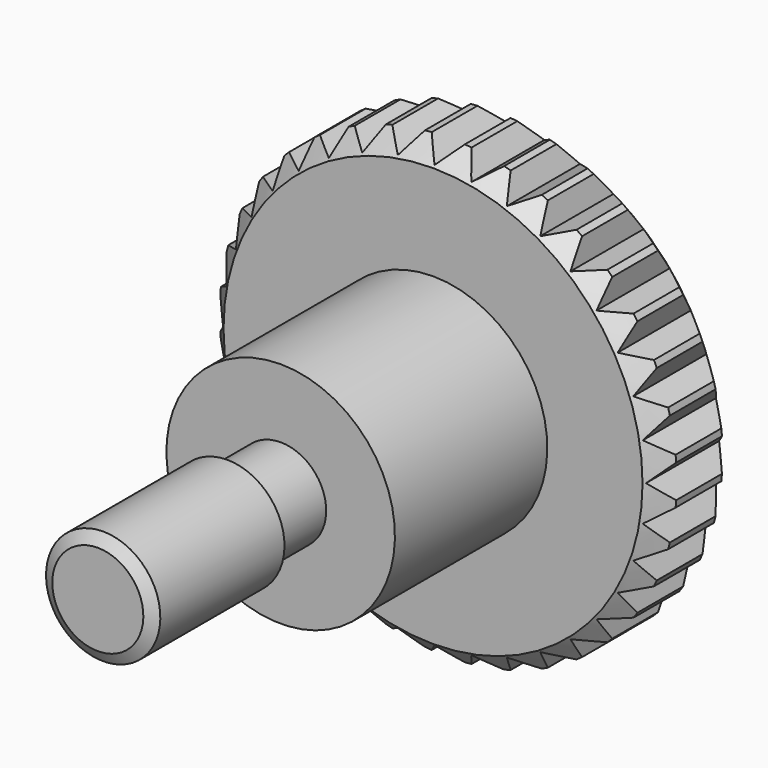
from build123d import *

# Parameters (mm, degrees)
POCKET_DEPTH       = 56.871497
POLARPATTERN_COUNT = 36


with BuildPart() as part:
    # Sketch → Revolution (revolve)
    with BuildSketch(Plane.YZ):
        Polygon((0, 0), (0, 1.195), (0.176092, 1.5), (4.25, 1.5), (4.426092, 1.195), (6, 1.195), (6, 3), (11, 3), (11, 5.5), (11.5, 6), (13, 6), (13.5, 5.5), (13.5, 0), align=None)
    revolve(axis=Axis((0, 0, 0), (0, 1, 0)))

    # Sketch001 → Pocket (cut, through all)
    with BuildSketch(Plane.ZX.offset(13.5)):
        Polygon((-0.5, 6.05), (0, 5.55), (0.5, 6.05), align=None)
    pocket = extrude(amount=-POCKET_DEPTH, mode=Mode.SUBTRACT)

    # PolarPattern: Pocket ×36 about axis
    polarpattern_axis = Axis((0, 13.5, 0), (0, 1, 0))
    for i in range(1, POLARPATTERN_COUNT):
        add(pocket.rotate(polarpattern_axis, i * 360 / POLARPATTERN_COUNT), mode=Mode.SUBTRACT)


solid = part.part
